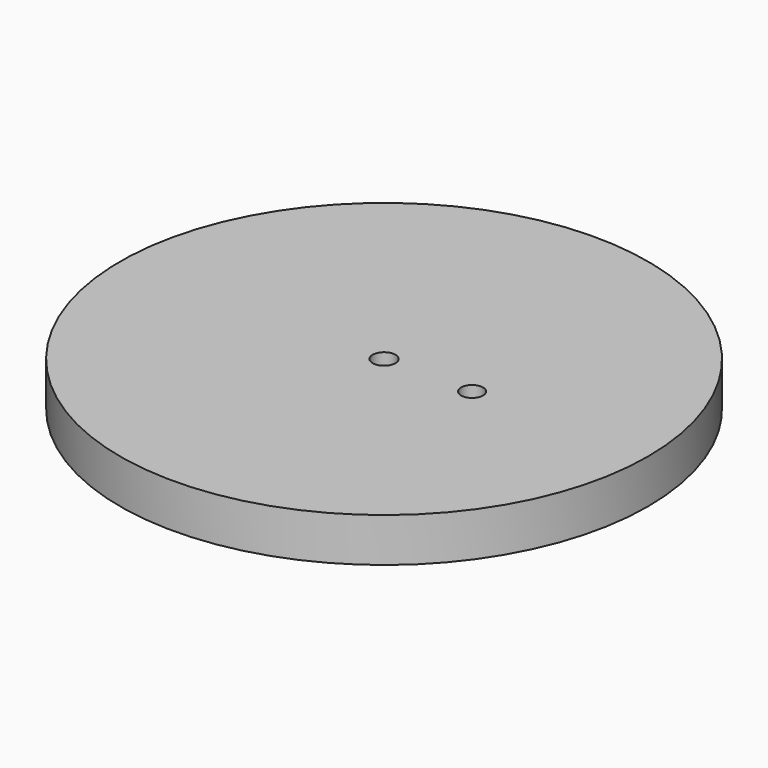
from build123d import *

# Parameters (mm, degrees)
SKETCH_R      = 60
SKETCH_R_2    = 2.6
SKETCH_R_3    = 2.5
EXTRUDE_DEPTH = 10


with BuildPart() as part:
    # Sketch → Extrude (new body)
    with BuildSketch(Plane.XY):
        Circle(SKETCH_R)
        Circle(SKETCH_R_2, mode=Mode.SUBTRACT)
        with Locations((20, 0)):
            Circle(SKETCH_R_3, mode=Mode.SUBTRACT)
    extrude(amount=EXTRUDE_DEPTH)


solid = part.part
